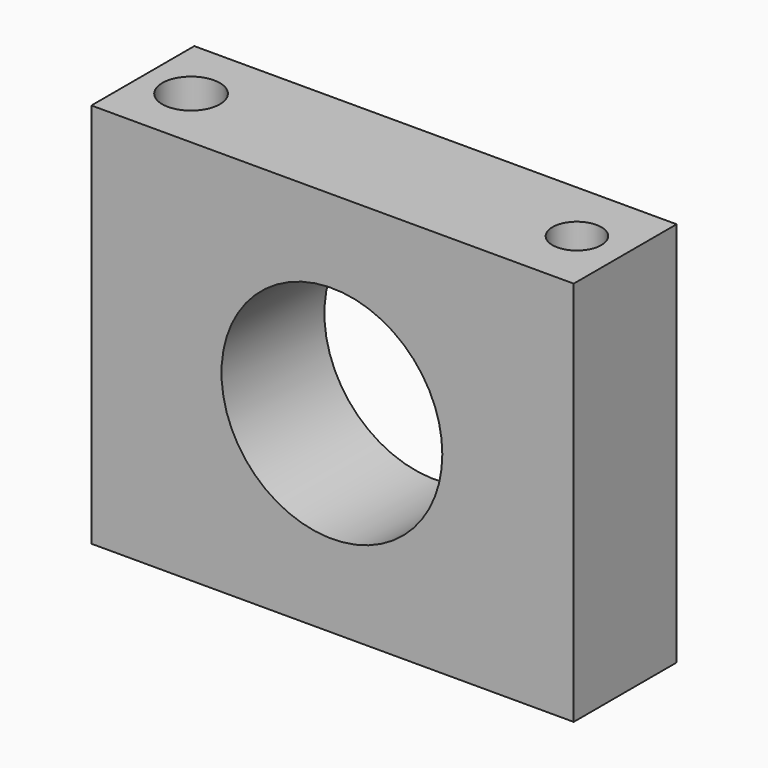
from build123d import *

# Parameters (mm, degrees)
F0_W     = 95.25
F0_H     = 76.2
F0_R     = 21.805382
F1_DEPTH = 25.4
F2_R     = 5.691543
F2_R_2   = 4.826264
F3_DEPTH = 80.52062


with BuildPart() as f1:
    # F0 (on Front) → F1 (new body)
    with BuildSketch(Plane.XZ):
        with Locations((7.755504, 6.826794)):
            Rectangle(F0_W, F0_H)
        with Locations((7.628504, 6.826794)):
            Circle(F0_R, mode=Mode.SUBTRACT)
    extrude(amount=F1_DEPTH)

    # F2 (on face) → F3 (cut)
    with BuildSketch(Plane.XY.offset(44.926794)):
        with Locations((-30.344496, -12.7)):
            Circle(F2_R)
        with Locations((45.855504, -12.7)):
            Circle(F2_R_2)
    extrude(amount=-F3_DEPTH, mode=Mode.SUBTRACT)


solid = f1.part
